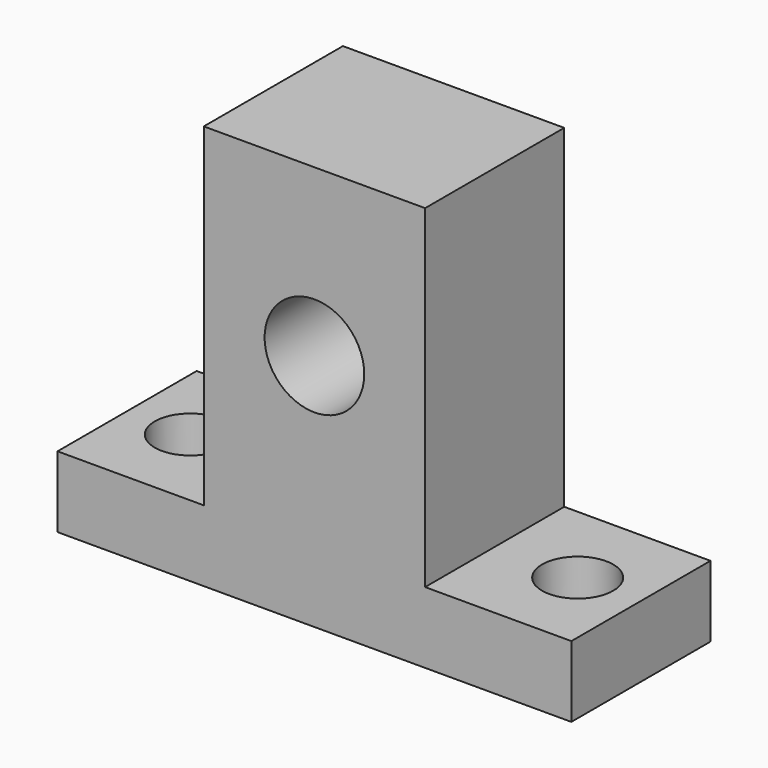
from build123d import *

# Parameters (mm, degrees)
F0_R     = 4.0005
F1_DEPTH = 6.985
F2_R     = 2.8575
F3_DEPTH = 5.715


with BuildPart() as f1:
    # F0 (on Front) → F1 (new body, symmetric)
    with BuildSketch(Plane.XZ):
        Polygon((8.89, 13.335), (-8.89, 13.335), (-8.89, -13.462), (-20.6375, -13.462), (-20.6375, -19.177), (20.6375, -19.177), (20.6375, -13.462), (8.89, -13.462), align=None)
        Circle(F0_R, mode=Mode.SUBTRACT)
    extrude(amount=F1_DEPTH, both=True)

    # F2 (on face) → F3 (cut, through all)
    with BuildSketch(Plane(origin=(0, 0, -19.177), x_dir=(1, 0, 0), z_dir=(0, 0, -1))):
        with Locations((-15.5575, 0)):
            Circle(F2_R)
        with Locations((15.5575, 0)):
            Circle(F2_R)
    extrude(amount=-F3_DEPTH, mode=Mode.SUBTRACT)


solid = f1.part
